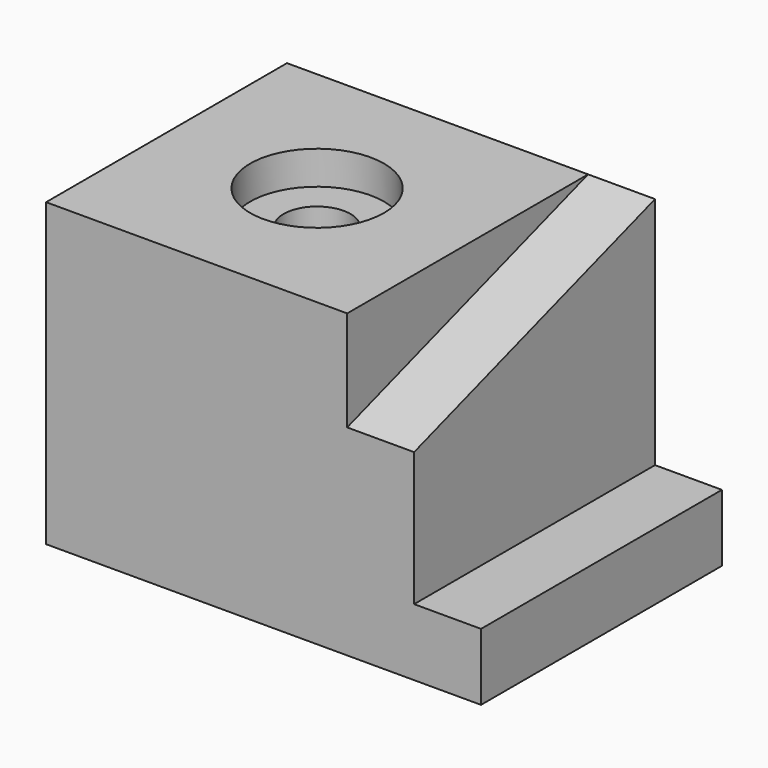
from build123d import *

# Parameters (mm, degrees)
F1_DEPTH       = 22.5
F3_DEPTH       = 10
F5_D           = 10
F5_CBORE_D     = 20
F5_CBORE_DEPTH = 5


with BuildPart() as f1:
    # F0 (on Front) → F1 (new body, symmetric)
    with BuildSketch(Plane.XZ):
        Polygon((0, 45), (0, 0), (65, 0), (65, 10), (55, 10), (55, 45), align=None)
    extrude(amount=F1_DEPTH, both=True)

    # F2 (on face) → F3 (cut)
    with BuildSketch(Plane.YZ.offset(55)):
        Polygon((-22.5, 45), (-22.5, 30), (22.5, 45), align=None)
    extrude(amount=-F3_DEPTH, mode=Mode.SUBTRACT)

    # F5 (through all)
    with Locations(Plane.XY.offset(45)):
        with Locations((22.5, 0)):
            CounterBoreHole(F5_D / 2, F5_CBORE_D / 2, F5_CBORE_DEPTH)


solid = f1.part
